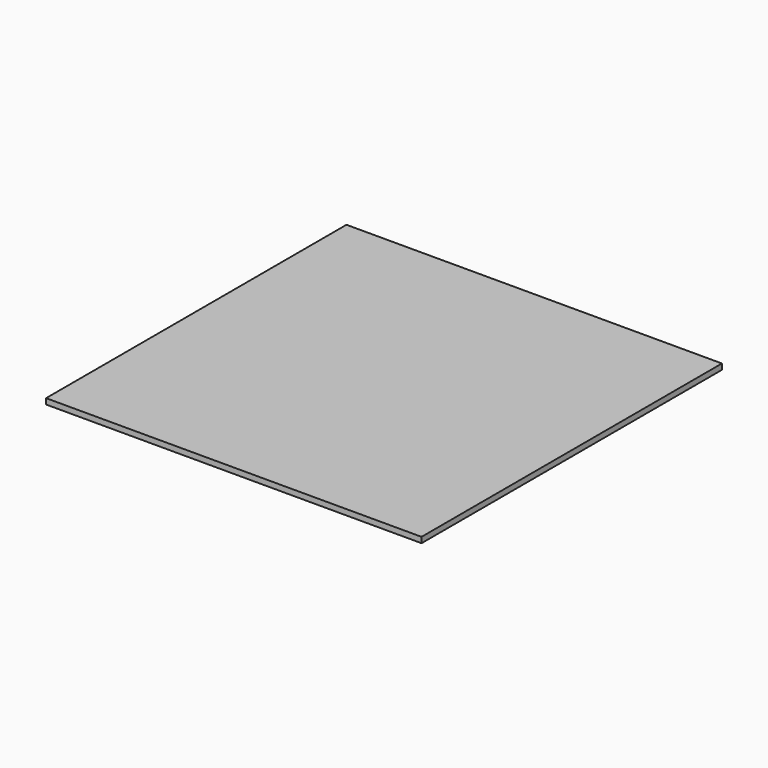
from build123d import *

# Parameters (mm, degrees)
SKETCH_W  = 200
SKETCH_H  = 200
PAD_DEPTH = 3


with BuildPart() as part:
    # Sketch → Pad (new body)
    with BuildSketch(Plane.XY):
        Rectangle(SKETCH_W, SKETCH_H)
    extrude(amount=PAD_DEPTH)


solid = part.part
